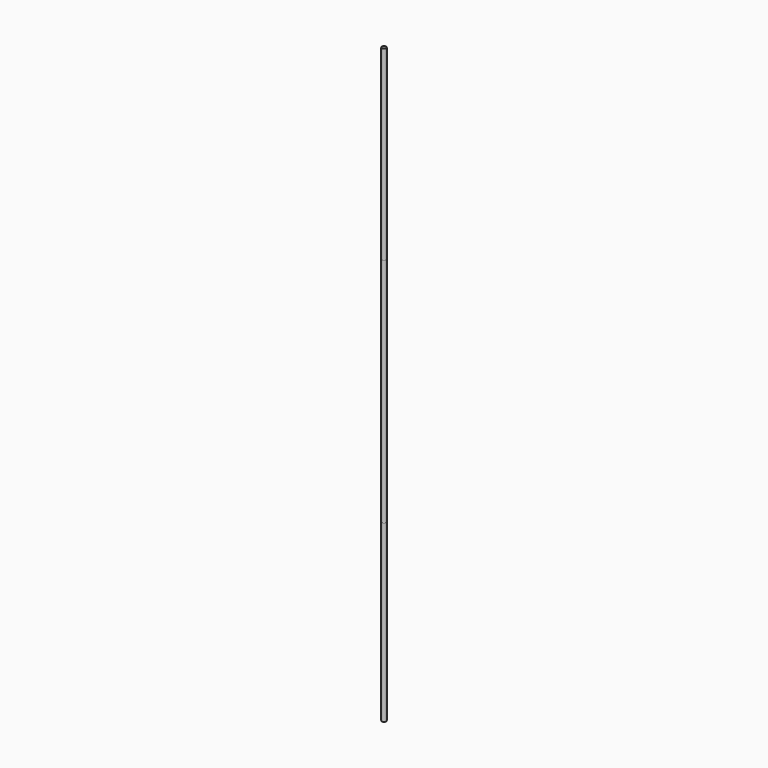
from build123d import *

# Parameters (mm, degrees)
F0_R     = 4
F1_DEPTH = 430
F2_DEPTH = 347
F3_DEPTH = 325


with BuildPart() as f1:
    # F0 (on Top) → F1 (new body)
    with BuildSketch(Plane.XY):
        Circle(F0_R)
    extrude(amount=F1_DEPTH)


with BuildPart() as f2:
    # F2 (new): a face of the model
    f2_faces = [f1.part.faces().sort_by_distance(p)[0] for p in [
        (0, 0, 430),
    ]]
    extrude(f2_faces, amount=F2_DEPTH)


with BuildPart() as f3:
    # F3 (new): a face of the model
    f3_faces = [f1.part.faces().sort_by_distance(p)[0] for p in [
        (0, 0, 0),
    ]]
    extrude(f3_faces, amount=F3_DEPTH)


solid = Compound([f1.part, f2.part, f3.part])
